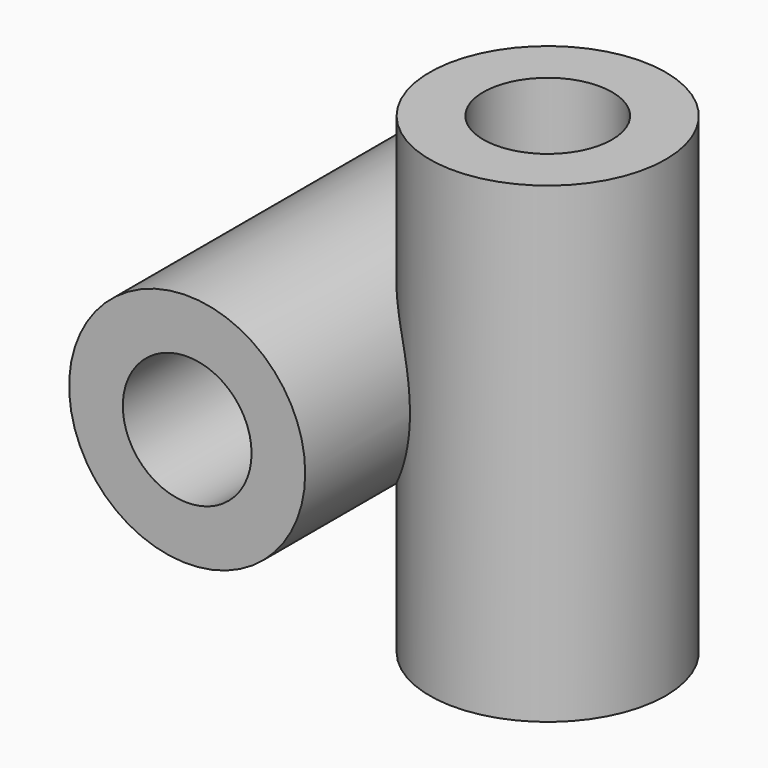
from build123d import *

# Parameters (mm, degrees)
F0_R     = 3
F0_R_2   = 5.5
F1_DEPTH = 11
F2_R     = 3
F2_R_2   = 5.5
F3_DEPTH = 11
F4_R     = 3
F5_DEPTH = 12.5
F6_R     = 3
F7_DEPTH = 22.001


with BuildPart() as f1:
    # F0 (on Front) → F1 (new body, symmetric)
    with BuildSketch(Plane.XZ):
        Circle(F0_R)
        Circle(F0_R_2)
        Circle(F0_R, mode=Mode.SUBTRACT)
    extrude(amount=F1_DEPTH, both=True)

    # F2 (on Top) → F3 (join, symmetric)
    with BuildSketch(Plane.XY):
        with Locations((8, 0)):
            Circle(F2_R)
        with Locations((8, 0)):
            Circle(F2_R_2)
        with Locations((8, 0)):
            Circle(F2_R, mode=Mode.SUBTRACT)
    extrude(amount=F3_DEPTH, both=True)

    # F4 (on Front) → F5 (cut, symmetric)
    with BuildSketch(Plane.XZ):
        Circle(F4_R)
    extrude(amount=F5_DEPTH, both=True, mode=Mode.SUBTRACT)

    # F6 (on face) → F7 (cut, through all)
    with BuildSketch(Plane(origin=(0, 0, -11), x_dir=(1, 0, 0), z_dir=(0, 0, -1))):
        with Locations((8, 0)):
            Circle(F6_R)
    extrude(amount=-F7_DEPTH, mode=Mode.SUBTRACT)


solid = f1.part
